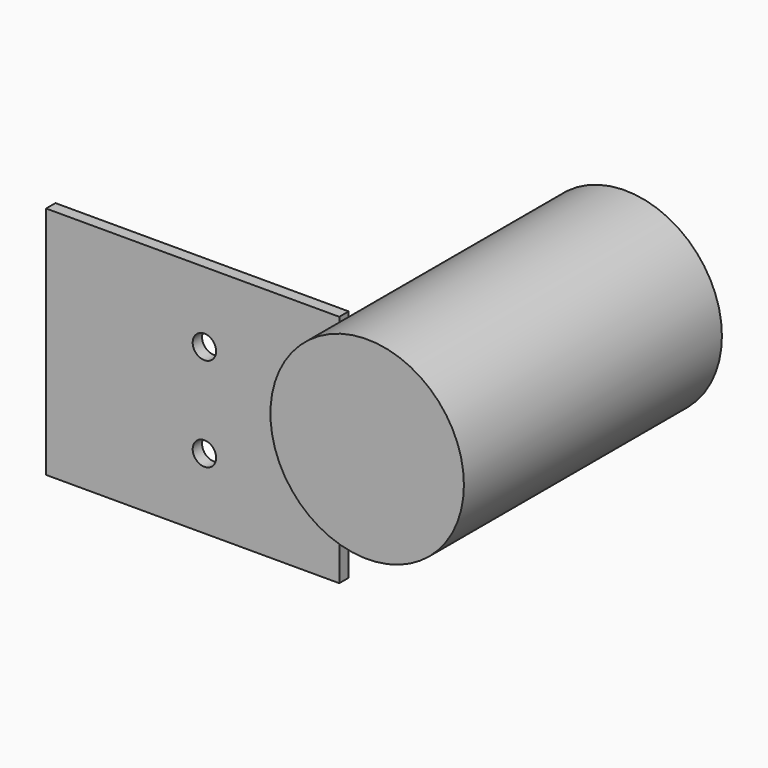
from build123d import *

# Parameters (mm, degrees)
F0_W     = 50
F0_H     = 40
F0_R     = 2
F1_DEPTH = 2
F2_R     = 16.5
F3_DEPTH = 55


with BuildPart() as f1:
    # F0 (on Front) → F1 (new body)
    with BuildSketch(Plane.XZ):
        with Locations((-29.089227, -17.359149)):
            Rectangle(F0_W, F0_H)
        with Locations((-27.089227, -25.359149)):
            Circle(F0_R, mode=Mode.SUBTRACT)
        with Locations((-27.089227, -9.359149)):
            Circle(F0_R, mode=Mode.SUBTRACT)
    extrude(amount=F1_DEPTH)


with BuildPart() as f3:
    # F2 (on Front) → F3 (new body)
    with BuildSketch(Plane.XZ):
        with Locations((43.06734, 19.64603)):
            Circle(F2_R)
    extrude(amount=F3_DEPTH)


solid = Compound([f1.part, f3.part])
